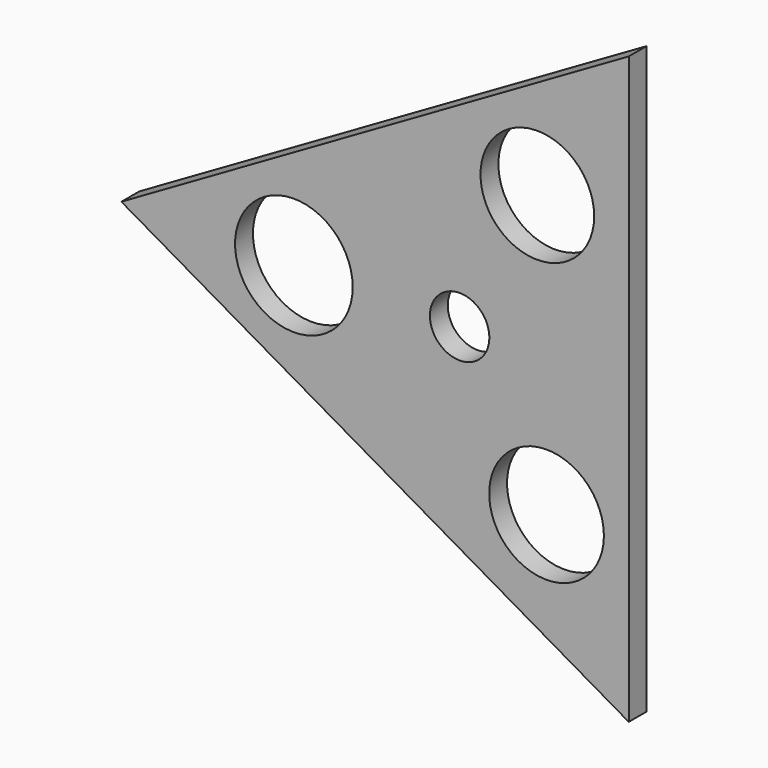
from build123d import *

# Parameters (mm, degrees)
F1_DEPTH  = 5
F2_R      = 13.153904
F4_DEPTH  = 51.562
F3_R      = 12.711179
F5_DEPTH  = 34.29
F6_R      = 12.830004
F7_DEPTH  = 49.276
F9_R      = 6.65
F10_DEPTH = 25.4


with BuildPart() as f1:
    # F0 (on Front) → F1 (new body)
    with BuildSketch(Plane.XZ):
        Polygon((37.830465, -65.524287), (37.830465, 65.524287), (-75.660929, 0), align=None)
    extrude(amount=F1_DEPTH)

    # F2 (on face) → F4 (cut)
    with BuildSketch(Plane.XZ.offset(5)):
        with Locations((-37.074074, 0)):
            Circle(F2_R)
    extrude(amount=-F4_DEPTH, mode=Mode.SUBTRACT)

    # F3 (on face) → F5 (cut)
    with BuildSketch(Plane.XZ.offset(5)):
        with Locations((17.382601, 31.523474)):
            Circle(F3_R)
    extrude(amount=-F5_DEPTH, mode=Mode.SUBTRACT)

    # F6 (on face) → F7 (cut)
    with BuildSketch(Plane.XZ.offset(5)):
        with Locations((19.439183, -30.693928)):
            Circle(F6_R)
    extrude(amount=-F7_DEPTH, mode=Mode.SUBTRACT)

    # F9 (on face) → F10 (cut)
    with BuildSketch(Plane.XZ.offset(5)):
        Circle(F9_R)
    extrude(amount=-F10_DEPTH, mode=Mode.SUBTRACT)


solid = f1.part
